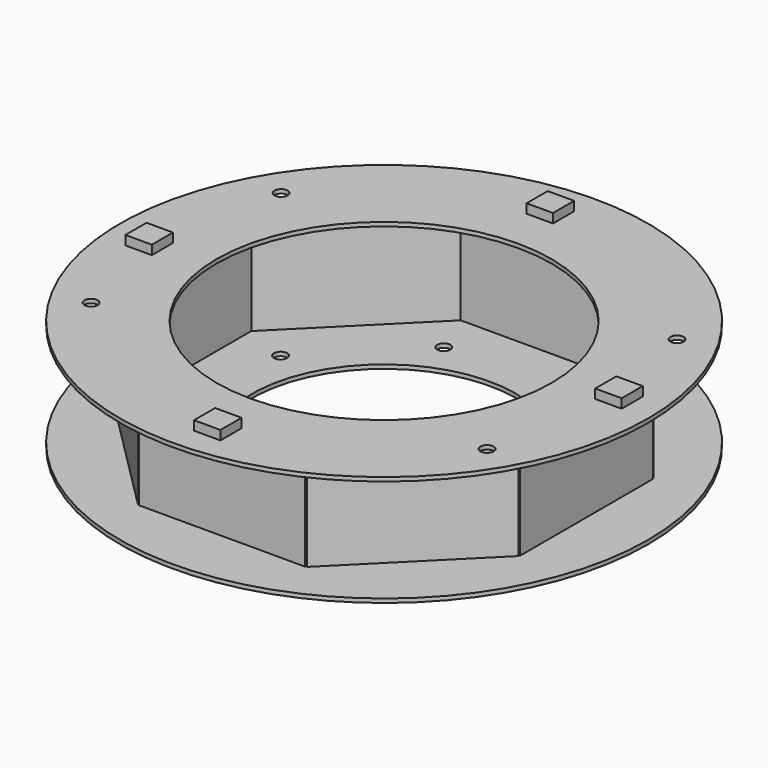
from build123d import *

# Parameters (mm, degrees)
SKETCH_R           = 200
SKETCH_R_2         = 100
SKETCH_R_3         = 5
PAD_DEPTH          = 3
SKETCH001_W        = 3
SKETCH001_H        = 126
PAD001_DEPTH       = 84
SKETCH002_R        = 200
SKETCH002_R_2      = 127
SKETCH002_R_3      = 5
PAD002_DEPTH       = 3
POLARPATTERN_COUNT = 8
SKETCH003_W        = 20
SKETCH003_H        = 20
PAD003_DEPTH       = 10


with BuildPart() as part:
    # Sketch → Pad (new body)
    with BuildSketch(Plane.XY):
        Circle(SKETCH_R)
        Circle(SKETCH_R_2, mode=Mode.SUBTRACT)
        with Locations((-117.332701, 48.600796)):
            Circle(SKETCH_R_3, mode=Mode.SUBTRACT)
        with Locations((-48.600796, 117.332701)):
            Circle(SKETCH_R_3, mode=Mode.SUBTRACT)
        with Locations((48.600796, 117.332701)):
            Circle(SKETCH_R_3, mode=Mode.SUBTRACT)
        with Locations((117.332701, 48.600796)):
            Circle(SKETCH_R_3, mode=Mode.SUBTRACT)
        with Locations((117.332701, -48.600796)):
            Circle(SKETCH_R_3, mode=Mode.SUBTRACT)
        with Locations((48.600796, -117.332701)):
            Circle(SKETCH_R_3, mode=Mode.SUBTRACT)
        with Locations((-48.600796, -117.332701)):
            Circle(SKETCH_R_3, mode=Mode.SUBTRACT)
        with Locations((-117.332701, -48.600796)):
            Circle(SKETCH_R_3, mode=Mode.SUBTRACT)
    extrude(amount=PAD_DEPTH)

    # Sketch001 → Pad001 (join)
    with BuildSketch(Plane.XY):
        with Locations((-152, 0)):
            Rectangle(SKETCH001_W, SKETCH001_H)
    pad001 = extrude(amount=PAD001_DEPTH)

    # Sketch002 (on DatumPlane) → Pad002 (join)
    with BuildSketch(Plane.XY.offset(81)):
        Circle(SKETCH002_R)
        Circle(SKETCH002_R_2, mode=Mode.SUBTRACT)
        with Locations((-150, 90)):
            Circle(SKETCH002_R_3, mode=Mode.SUBTRACT)
        with Locations((-150, -90)):
            Circle(SKETCH002_R_3, mode=Mode.SUBTRACT)
        with Locations((150, 90)):
            Circle(SKETCH002_R_3, mode=Mode.SUBTRACT)
        with Locations((150, -90)):
            Circle(SKETCH002_R_3, mode=Mode.SUBTRACT)
    extrude(amount=PAD002_DEPTH)

    # PolarPattern: Pad001 ×8 about axis
    polarpattern_axis = Axis((0, 0, 0), (0, 0, 1))
    for i in range(1, POLARPATTERN_COUNT):
        add(pad001.rotate(polarpattern_axis, i * 360 / POLARPATTERN_COUNT))

    # Sketch003 (on DatumPlane) → Pad003 (join)
    with BuildSketch(Plane.XY.offset(81)):
        with Locations((170, 10)):
            Rectangle(SKETCH003_W, SKETCH003_H)
        with Locations((-10, 170)):
            Rectangle(SKETCH003_W, SKETCH003_H)
        with Locations((-170, -10)):
            Rectangle(SKETCH003_W, SKETCH003_H)
        with Locations((10, -170)):
            Rectangle(SKETCH003_W, SKETCH003_H)
    extrude(amount=PAD003_DEPTH)


solid = part.part
